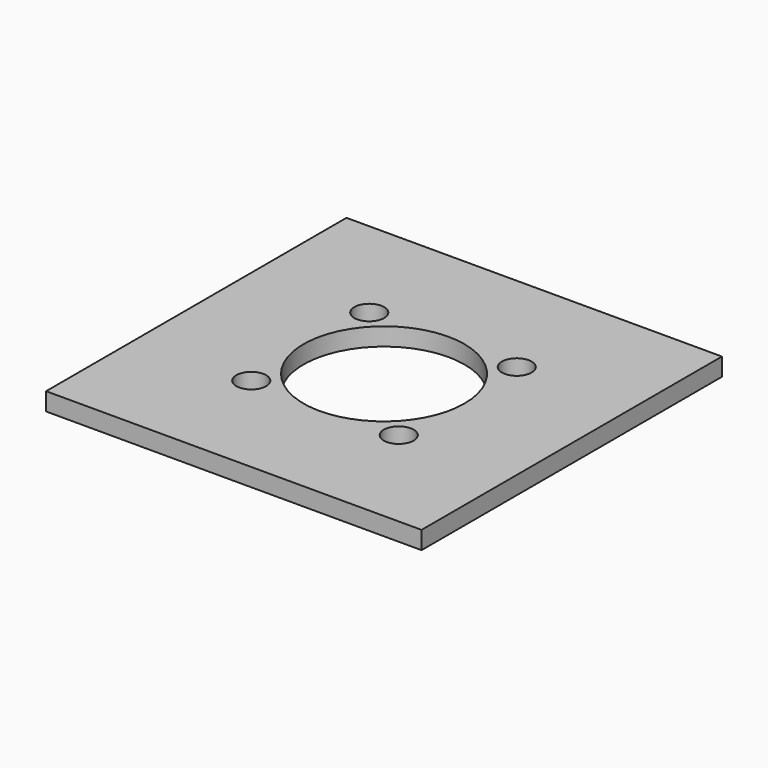
from build123d import *

# Parameters (mm, degrees)
F0_W     = 63
F0_H     = 63
F0_R     = 2.5
F0_R_2   = 13.5
F1_DEPTH = 3


with BuildPart() as f1:
    # F0 (on Top) → F1 (new body)
    with BuildSketch(Plane.XY):
        with Locations((5.685991, -5.965114)):
            Rectangle(F0_W, F0_H)
        with Locations((-6.688378, -18.339483)):
            Circle(F0_R, mode=Mode.SUBTRACT)
        with Locations((18.06036, -18.339483)):
            Circle(F0_R, mode=Mode.SUBTRACT)
        with Locations((-6.688378, 6.409255)):
            Circle(F0_R, mode=Mode.SUBTRACT)
        with Locations((5.685991, -5.965114)):
            Circle(F0_R_2, mode=Mode.SUBTRACT)
        with Locations((18.06036, 6.409255)):
            Circle(F0_R, mode=Mode.SUBTRACT)
    extrude(amount=F1_DEPTH)


solid = f1.part
